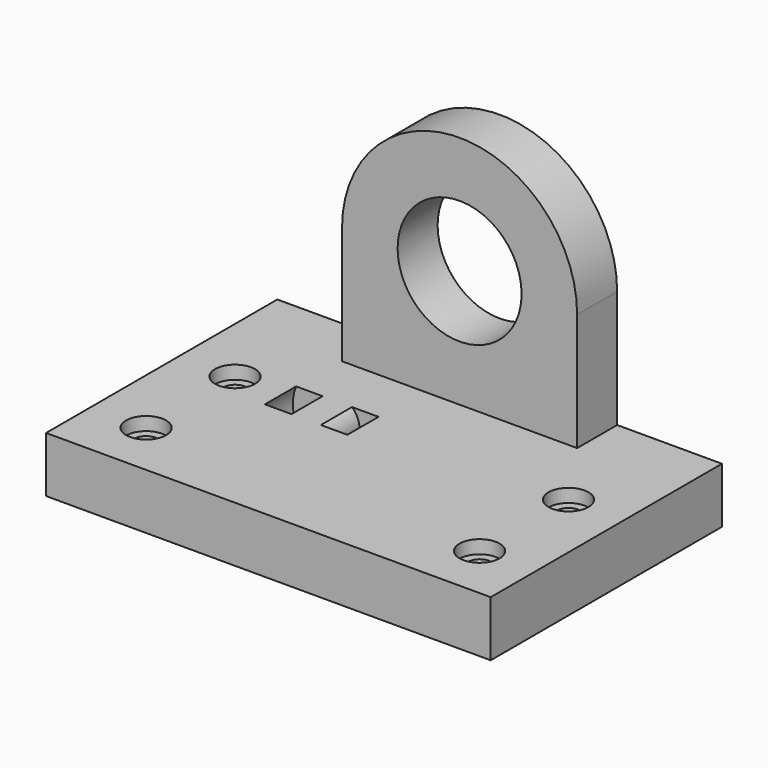
from build123d import *

# Parameters (mm, degrees)
CYLINDER001_R       = 4
CYLINDER001_DEPTH   = 10
CYLINDER_R          = 8
CYLINDER_DEPTH      = 7
CUT_PITCH_ANGLE     = 90
CUT_PLACEMENT_ANGLE = 90
SKETCH_W            = 80
SKETCH_H            = 52
SKETCH_R            = 2.1
PAD_DEPTH           = 10
SKETCH009_R         = 11.15
PAD001_DEPTH        = 9
SKETCH010_R         = 3.6
POCKET_DEPTH        = 2.4


with BuildPart() as zylinder001:
    # Cylinder001 → Cylinder001 (new body)
    with BuildSketch(Plane.XY):
        Circle(CYLINDER001_R)
    extrude(amount=CYLINDER001_DEPTH)


with BuildPart() as cut:
    # Cylinder → Cylinder (new body)
    with BuildSketch(Plane.XY):
        Circle(CYLINDER_R)
    extrude(amount=CYLINDER_DEPTH)

    # Cut: cut Zylinder001
    add(zylinder001.part, mode=Mode.SUBTRACT)


with BuildPart() as cut_1:
    # Cut pitch: moved
    add(cut.part.rotate(Axis((0, 0, 0), (0, 1, 0)), CUT_PITCH_ANGLE))


with BuildPart() as cut_2:
    # Cut placement: moved
    add(cut_1.part.moved(Location((-14, 0, 7))).rotate(Axis((-14, 0, 7), (0, 0, 1)), CUT_PLACEMENT_ANGLE))


with BuildPart() as pocket:
    # Sketch → Pad (new body)
    with BuildSketch(Plane.XY):
        Rectangle(SKETCH_W, SKETCH_H)
        with Locations((-30, -16)):
            Circle(SKETCH_R, mode=Mode.SUBTRACT)
        with Locations((-30, 4)):
            Circle(SKETCH_R, mode=Mode.SUBTRACT)
        with Locations((30, 4)):
            Circle(SKETCH_R, mode=Mode.SUBTRACT)
        with Locations((30, -16)):
            Circle(SKETCH_R, mode=Mode.SUBTRACT)
    extrude(amount=PAD_DEPTH)

    # Sketch009 → Pad001 (new body)
    with BuildSketch(Plane(origin=(0, 26, 0), x_dir=(-1, 0, 0), z_dir=(0, 1, 0))):
        with BuildLine():
            ThreePointArc((21.15, 31.150033), (-1.7e-05, 52.3), (-21.15, 31.15))
            Line((-21.15, 31.15), (-21.15, 10))
            Line((-21.15, 10), (21.15, 10))
            Line((21.15, 10), (21.15, 31.150033))
        make_face()
        with Locations((0, 31.15)):
            Circle(SKETCH009_R, mode=Mode.SUBTRACT)
    extrude(amount=-PAD001_DEPTH)

    # Cut001: cut Cut
    add(cut_2.part, mode=Mode.SUBTRACT)

    # Sketch010 → Pocket (cut)
    with BuildSketch(Plane.XY.offset(10)):
        with Locations((-30, 4)):
            Circle(SKETCH010_R)
        with Locations((-30, -16)):
            Circle(SKETCH010_R)
        with Locations((30, -16)):
            Circle(SKETCH010_R)
        with Locations((30, 4)):
            Circle(SKETCH010_R)
    extrude(amount=-POCKET_DEPTH, mode=Mode.SUBTRACT)


solid = pocket.part
